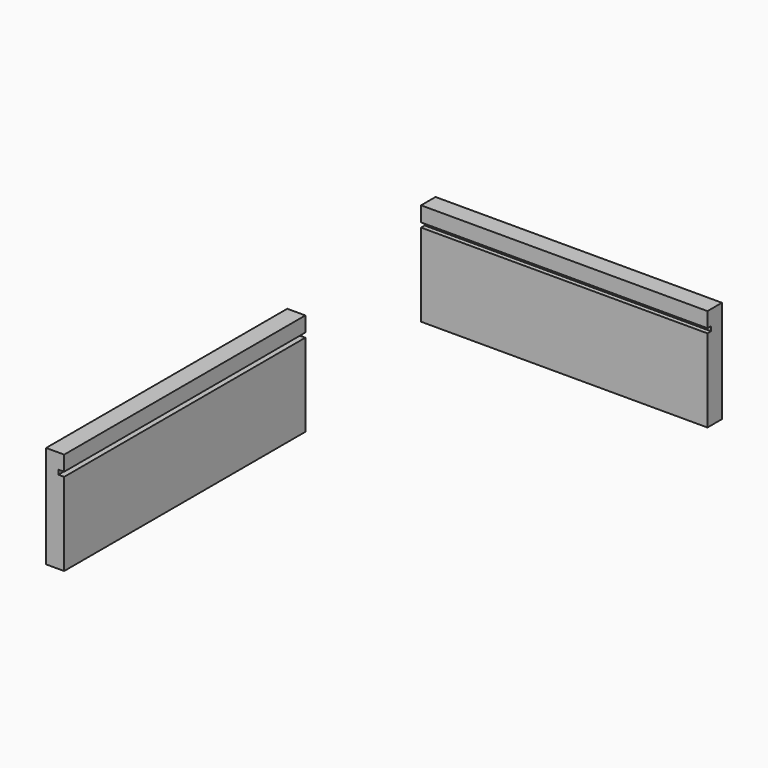
from build123d import *

# Parameters (mm, degrees)
F1_DEPTH = 190
F3_DEPTH = 200


with BuildPart() as f1:
    # F0 (on Right) → F1 (new body)
    with BuildSketch(Plane.YZ):
        Polygon((12, 46.768533), (0, 46.768533), (0, 36.768533), (3, 36.768533), (3, 33.768533), (0, 33.768533), (0, -21.231467), (12, -21.231467), align=None)
    extrude(amount=F1_DEPTH)


with BuildPart() as f3:
    # F2 (on Front) → F3 (new body)
    with BuildSketch(Plane.XZ):
        Polygon((-76.766213, -42.50017), (-88.766213, -42.50017), (-88.766213, -110.50017), (-76.766213, -110.50017), (-76.766213, -55.50017), (-80.592483, -55.50017), (-80.592483, -52.50017), (-76.766213, -52.50017), align=None)
    extrude(amount=F3_DEPTH)


solid = Compound([f1.part, f3.part])
